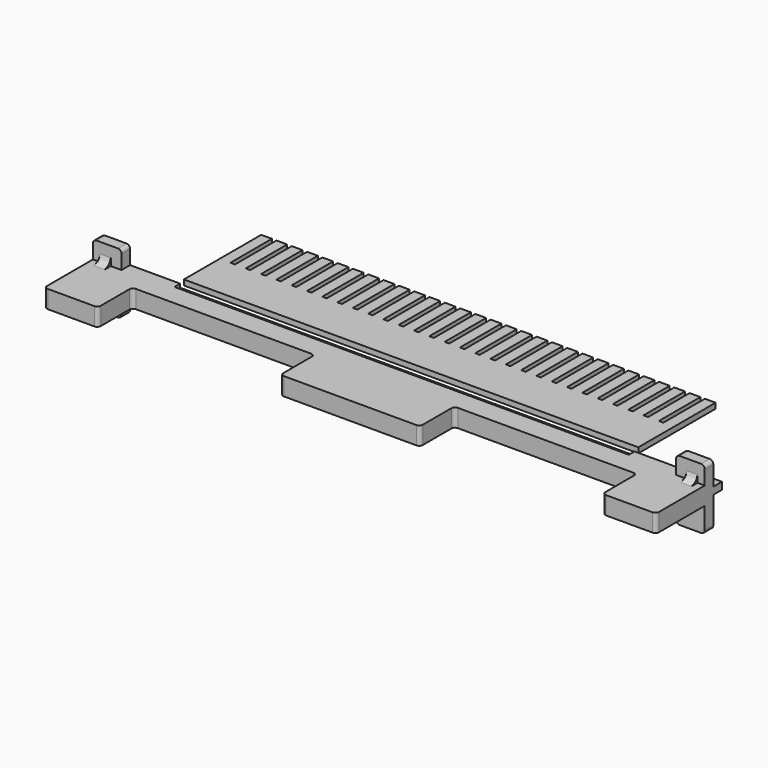
from build123d import *

# Parameters (mm, degrees)
F1_DEPTH  = 5
F2_W      = 8
F2_H      = 5
F2_H_2    = 7
F2_W_2    = 2
F2_H_3    = 2
F3_DEPTH  = 3
F4_DEPTH  = 3
F6_DEPTH  = 3
F7_R      = 1
F8_DEPTH  = 3
F5_W      = 127
F5_H      = 1
F9_DEPTH  = 2
F11_DEPTH = 1.5
F13_START = -2
F13_DEPTH = 3


with BuildPart() as f1:
    # F0 (on Top) → F1 (new body)
    with BuildSketch(Plane.XY):
        Polygon((85.5, 20), (-85.5, 20), (-85.5, 0), (-70.5, 0), (-70.5, 12), (-19.5, 12), (-19.5, 0), (19.5, 0), (19.5, 12), (70.5, 12), (70.5, 0), (85.5, 0), align=None)
    extrude(amount=F1_DEPTH)

    # F2 (on face) → F3 (join)
    with BuildSketch(Plane(origin=(0, 20, 0), x_dir=(-1, 0, 0), z_dir=(0, 1, 0))):
        with Locations((81.5, 7.5)):
            Rectangle(F2_W, F2_H)
        with Locations((81.5, -3.5)):
            Rectangle(F2_W, F2_H_2)
        Polygon((77.5, 5), (77.5, 0), (85.5, 0), (85.5, 1.5), (83.5, 1.5), (83.5, 3.5), (85.5, 3.5), (85.5, 5), align=None)
        with Locations((84.5, 2.5)):
            Rectangle(F2_W_2, F2_H_3)
        with Locations((-84.5, 2.5)):
            Rectangle(F2_W_2, F2_H_3)
        with Locations((-81.5, 7.5)):
            Rectangle(F2_W, F2_H)
        Polygon((-85.5, 0), (-77.5, 0), (-77.5, 5), (-85.5, 5), (-85.5, 3.5), (-83.5, 3.5), (-83.5, 1.5), (-85.5, 1.5), align=None)
        with Locations((-81.5, -3.5)):
            Rectangle(F2_W, F2_H_2)
    extrude(amount=-F3_DEPTH)

    # F2 (on face) → F4 (join)
    with BuildSketch(Plane(origin=(0, 20, 0), x_dir=(-1, 0, 0), z_dir=(0, 1, 0))):
        with Locations((84.5, 2.5)):
            Rectangle(F2_W_2, F2_H_3)
        with Locations((-84.5, 2.5)):
            Rectangle(F2_W_2, F2_H_3)
    extrude(amount=F4_DEPTH)

    # F5 (on face) → F6 (join)
    with BuildSketch(Plane(origin=(0, 20, 0), x_dir=(-1, 0, 0), z_dir=(0, 1, 0))):
        Polygon((-85.5, -2), (85.5, -2), (85.5, 5), (77.5, 5), (77.5, 0), (-77.5, 0), (-77.5, 5), (-85.5, 5), align=None)
        Polygon((77.5, 0), (77.5, 5), (63.5, 5), (63.5, 4), (-63.5, 4), (-63.5, 5), (-77.5, 5), (-77.5, 0), align=None)
    extrude(amount=-F6_DEPTH)

    # F7
    f7_edges = [f1.edges().sort_by_distance(p)[0] for p in [
        (-70.5, 0, 2.5),
        (-19.5, 0, 2.5),
        (19.5, 0, 2.5),
        (70.5, 0, 2.5),
        (85.5, 0, 2.5),
        (70.5, 12, 2.5),
        (19.5, 12, 2.5),
        (-19.5, 12, 2.5),
        (-70.5, 12, 2.5),
        (-85.5, 0, 2.5),
        (-77.5, 18.5, 10),
        (-85.5, 18.5, 10),
        (85.5, 18.5, 10),
        (77.5, 18.5, 10),
        (85.5, 18.5, -7),
        (77.5, 18.5, -7),
        (-85.5, 18.5, -7),
        (-77.5, 18.5, -7),
    ]]
    fillet(f7_edges, radius=F7_R)

    # F5 (on face) → F8 (join)
    with BuildSketch(Plane(origin=(0, 20, 0), x_dir=(-1, 0, 0), z_dir=(0, 1, 0))):
        Polygon((77.5, 0), (77.5, 5), (63.5, 5), (63.5, 4), (-63.5, 4), (-63.5, 5), (-77.5, 5), (-77.5, 0), align=None)
    extrude(amount=-F8_DEPTH)

    # F5 (on face) → F9 (cut)
    with BuildSketch(Plane(origin=(0, 20, 0), x_dir=(-1, 0, 0), z_dir=(0, 1, 0))):
        with Locations((0, 4.5)):
            Rectangle(F5_W, F5_H)
    extrude(amount=-F9_DEPTH, mode=Mode.SUBTRACT)



with BuildPart() as f11:
    # F10 (on face) → F11 (new body)
    with BuildSketch(Plane.XY.offset(4)):
        Polygon((-63.5, 48.2983360891), (-63.5, 21.2983260824), (63.5, 21.2983260824), (63.5, 48.2983360891), (60.50393, 48.2983360891), (60.50393, 33.7983360891), (59.22807, 33.7983360891), (59.22807, 48.2983360891), (56.22793, 48.2983360891), (56.22793, 33.7983360891), (54.95207, 33.7983360891), (54.95207, 48.2983360891), (51.95193, 48.2983360891), (51.95193, 33.7983360891), (50.67607, 33.7983360891), (50.67607, 48.2983360891), (47.67593, 48.2983360891), (47.67593, 33.7983360891), (46.40007, 33.7983360891), (46.40007, 48.2983360891), (43.39993, 48.2983360891), (43.39993, 33.7983360891), (42.12407, 33.7983360891), (42.12407, 48.2983360891), (39.12393, 48.2983360891), (39.12393, 33.7983360891), (37.84807, 33.7983360891), (37.84807, 48.2983360891), (34.84793, 48.2983360891), (34.84793, 33.7983360891), (33.57207, 33.7983360891), (33.57207, 48.2983360891), (30.57193, 48.2983360891), (30.57193, 33.7983360891), (29.29607, 33.7983360891), (29.29607, 48.2983360891), (26.29593, 48.2983360891), (26.29593, 33.7983360891), (25.02007, 33.7983360891), (25.02007, 48.2983360891), (22.01993, 48.2983360891), (22.01993, 33.7983360891), (20.74407, 33.7983360891), (20.74407, 48.2983360891), (17.74393, 48.2983360891), (17.74393, 33.7983360891), (16.46807, 33.7983360891), (16.46807, 48.2983360891), (13.46793, 48.2983360891), (13.46793, 33.7983360891), (12.19207, 33.7983360891), (12.19207, 48.2983360891), (9.19193, 48.2983360891), (9.19193, 33.7983360891), (7.91607, 33.7983360891), (7.91607, 48.2983360891), (4.91593, 48.2983360891), (4.91593, 33.7983360891), (3.64007, 33.7983360891), (3.64007, 48.2983360891), (0.63993, 48.2983360891), (0.63993, 33.7983360891), (-0.63593, 33.7983360891), (-0.63593, 48.2983360891), (-3.63607, 48.2983360891), (-3.63607, 33.7983360891), (-4.91193, 33.7983360891), (-4.91193, 48.2983360891), (-7.91207, 48.2983360891), (-7.91207, 33.7983360891), (-9.18793, 33.7983360891), (-9.18793, 48.2983360891), (-12.18807, 48.2983360891), (-12.18807, 33.7983360891), (-13.46393, 33.7983360891), (-13.46393, 48.2983360891), (-16.46407, 48.2983360891), (-16.46407, 33.7983360891), (-17.73993, 33.7983360891), (-17.73993, 48.2983360891), (-20.74007, 48.2983360891), (-20.74007, 33.7983360891), (-22.01593, 33.7983360891), (-22.01593, 48.2983360891), (-25.01607, 48.2983360891), (-25.01607, 33.7983360891), (-26.29193, 33.7983360891), (-26.29193, 48.2983360891), (-29.29207, 48.2983360891), (-29.29207, 33.7983360891), (-30.56793, 33.7983360891), (-30.56793, 48.2983360891), (-33.56807, 48.2983360891), (-33.56807, 33.7983360891), (-34.84393, 33.7983360891), (-34.84393, 48.2983360891), (-37.84407, 48.2983360891), (-37.84407, 33.7983360891), (-39.11993, 33.7983360891), (-39.11993, 48.2983360891), (-42.12007, 48.2983360891), (-42.12007, 33.7983360891), (-43.39593, 33.7983360891), (-43.39593, 48.2983360891), (-46.39607, 48.2983360891), (-46.39607, 33.7983360891), (-47.67193, 33.7983360891), (-47.67193, 48.2983360891), (-50.67207, 48.2983360891), (-50.67207, 33.7983360891), (-51.94793, 33.7983360891), (-51.94793, 48.2983360891), (-54.94807, 48.2983360891), (-54.94807, 33.7983360891), (-56.22393, 33.7983360891), (-56.22393, 48.2983360891), (-59.22407, 48.2983360891), (-59.22407, 33.7983360891), (-60.49993, 33.7983360891), (-60.49993, 48.2983360891), align=None)
    extrude(amount=F11_DEPTH)


with BuildPart() as f13:
    # F12 (on face) → F13 (new body)
    with BuildSketch(Plane(origin=(-85.5, 0, 0), x_dir=(0, -1, 0), z_dir=(-1, 0, 0)).offset(F13_START)):
        with BuildLine():
            add(Edge.make_bspline(
                [(-17, 7), (-16.5329687297, 5.837794859), (-16.7456977069, 5.6087025441), (-14.8608516902, 5)],
                knots=[0, 0, 0, 0, 2.9284732356, 2.9284732356, 2.9284732356, 2.9284732356], degree=3))
            Line((-17, 7), (-17, 5))
            Line((-17, 5), (-14.8608516902, 5))
        make_face()
    extrude(amount=-F13_DEPTH)


with BuildPart() as f13b:
    # F12 (on face) → F13, piece 2 (new body)
    with BuildSketch(Plane(origin=(-85.5, 0, 0), x_dir=(0, -1, 0), z_dir=(-1, 0, 0)).offset(F13_START)):
        with BuildLine():
            add(Edge.make_bspline(
                [(-17, -2), (-16.5329687297, -0.837794859), (-16.7456977069, -0.6087025441), (-14.8608516902, 0)],
                knots=[0, 0, 0, 0, 2.9284732356, 2.9284732356, 2.9284732356, 2.9284732356], degree=3))
            Line((-14.8608516902, 0), (-17, 0))
            Line((-17, 0), (-17, -2))
        make_face()
    extrude(amount=-F13_DEPTH)


with BuildPart() as f1_1:
    add(f1.part)

    add(f13.part)  # F14 merges F13

    add(f13b.part)  # F14 merges F13b
    # F14: F13, F13b across plane
    add(f13.part.mirror(Plane.YZ))
    add(f13b.part.mirror(Plane.YZ))


solid = Compound([f11.part, f1_1.part])
